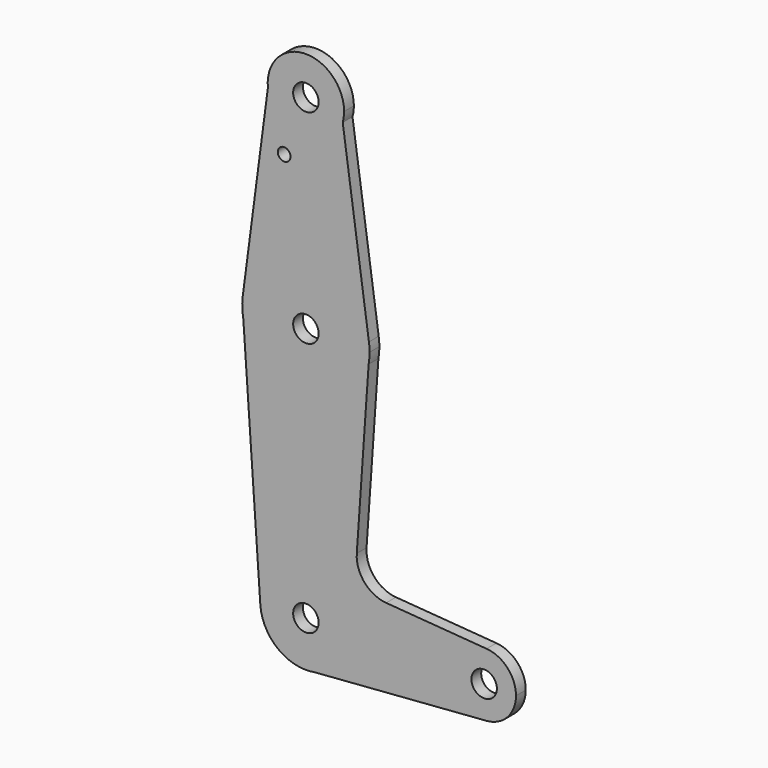
from build123d import *

# Parameters (mm, degrees)
F0_R     = 3.175
F0_R_2   = 1.5875
F1_DEPTH = 3.048


with BuildPart() as f1:
    # F0 (on Front) → F1 (new body)
    with BuildSketch(Plane.XZ):
        with BuildLine():
            ThreePointArc((-30.081518, 76.861808), (-29.827489, 78.110097), (-29.742305, 79.381121))
            ThreePointArc((-29.742305, 79.381121), (-39.756924, 88.893529), (-48.741969, 78.403178))
            ThreePointArc((-48.741969, 78.403178), (-40.051408, 69.88845), (-30.081518, 76.861808))
        make_face()
        with Locations((-39.267305, 79.381121)):
            Circle(F0_R, mode=Mode.SUBTRACT)
        with BuildLine():
            ThreePointArc((-30.081518, 76.861808), (-40.051408, 69.88845), (-48.741969, 78.403178))
            Line((-48.741969, 78.403178), (-55.007424, 30.646136))
            ThreePointArc((-55.007424, 30.646136), (-39.350254, 44.455904), (-23.549625, 30.810509))
            Line((-23.549625, 30.810509), (-30.081518, 76.861808))
        make_face()
        with Locations((-44.697035, 65.106321)):
            Circle(F0_R_2, mode=Mode.SUBTRACT)
        with BuildLine():
            ThreePointArc((-23.549625, 30.810509), (-39.350254, 44.455904), (-55.007424, 30.646136))
            ThreePointArc((-55.007424, 30.646136), (-55.136288, 28.144091), (-54.869912, 25.652932))
            ThreePointArc((-54.869912, 25.652932), (-39.141896, 12.706616), (-23.620383, 25.899805))
            ThreePointArc((-23.620383, 25.899805), (-23.449427, 27.235621), (-23.392305, 28.581121))
            ThreePointArc((-23.392305, 28.581121), (-23.431684, 29.698587), (-23.549625, 30.810509))
        make_face()
        with Locations((-39.267305, 28.581121)):
            Circle(F0_R, mode=Mode.SUBTRACT)
        with BuildLine():
            ThreePointArc((-23.620383, 25.899805), (-39.141896, 12.706616), (-54.869912, 25.652932))
            Line((-54.869912, 25.652932), (-50.625326, -35.704603))
            ThreePointArc((-50.625326, -35.704603), (-39.660401, -23.540501), (-27.882139, -34.918879))
            ThreePointArc((-27.882139, -34.918879), (-30.535717, -42.225135), (-37.259496, -46.125605))
            Line((-37.259496, -46.125605), (5.788, -42.833265))
            ThreePointArc((5.788, -42.833265), (-2.754805, -34.9167), (5.792344, -27.004826))
            Line((5.792344, -27.004826), (-19.258576, -25.07506))
            ThreePointArc((-19.258576, -25.07506), (-24.665648, -22.343825), (-26.578955, -16.596188))
            Line((-26.578955, -16.596188), (-23.620383, 25.899805))
        make_face()
        with BuildLine():
            ThreePointArc((-27.882139, -34.918879), (-39.660401, -23.540501), (-50.625326, -35.704603))
            ThreePointArc((-50.625326, -35.704603), (-47.136922, -43.146341), (-39.547515, -46.300596))
            Line((-39.547515, -46.300596), (-37.259496, -46.125605))
            ThreePointArc((-37.259496, -46.125605), (-30.535717, -42.225135), (-27.882139, -34.918879))
        make_face()
        with Locations((-39.267305, -34.918879)):
            Circle(F0_R, mode=Mode.SUBTRACT)
        with BuildLine():
            Line((-37.259496, -46.125605), (-39.547515, -46.300596))
            ThreePointArc((-39.547515, -46.300596), (-38.399085, -46.270892), (-37.259496, -46.125605))
        make_face()
        with BuildLine():
            ThreePointArc((13.120195, -34.918879), (11.006912, -29.526068), (5.792344, -27.004826))
            ThreePointArc((5.792344, -27.004826), (-2.754805, -34.9167), (5.788, -42.833265))
            ThreePointArc((5.788, -42.833265), (11.005431, -40.313288), (13.120195, -34.918879))
        make_face()
        with Locations((5.182695, -34.918879)):
            Circle(F0_R, mode=Mode.SUBTRACT)
    extrude(amount=F1_DEPTH)


solid = f1.part
